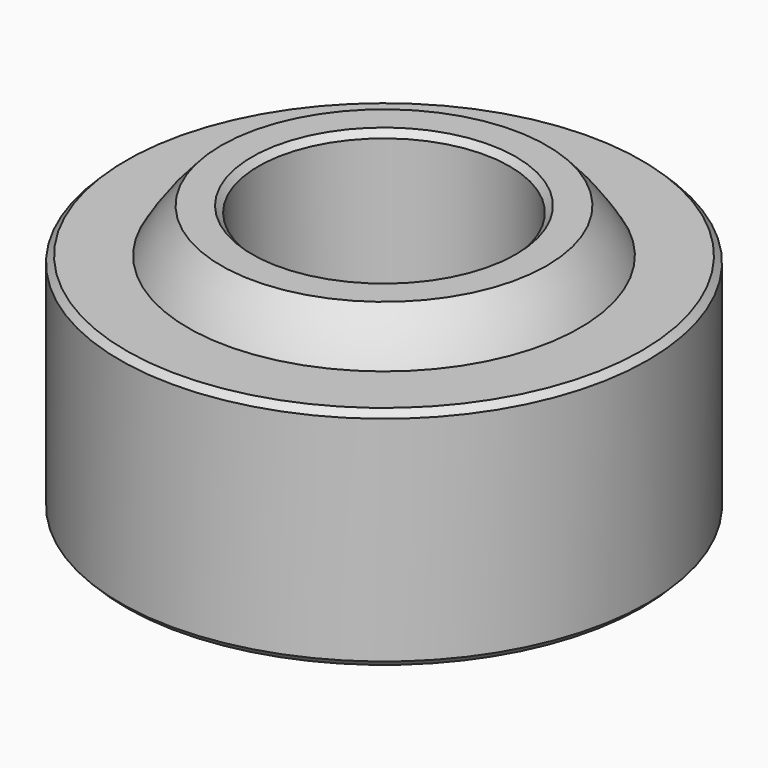
from build123d import *

# Parameters (mm, degrees)
F0_R          = 21
F1_DEPTH      = 9
F5_W          = 69.3683687429
F5_H          = 36.7891268256
F5_W_2        = 82.6124584142
F5_H_2        = 24.5260778603
F6_DEPTH      = 21.001
F6_DEPTH_BACK = 21.001
F7_R          = 10
F8_DEPTH      = 25.001
F9_SIZE       = 0.5
F9_2_SIZE     = 0.5


with BuildPart() as f1:
    # F0 (on Top) → F1 (new body, symmetric)
    with BuildSketch(Plane.XY):
        Circle(F0_R)
    extrude(amount=F1_DEPTH, both=True)

    # F2 (on Front) → F3 (revolve, cut)
    with BuildSketch(Plane.XZ):
        with BuildLine():
            Line((0, -18), (0, 18))
            ThreePointArc((0, 18), (-18, 0), (0, -18))
        make_face()
    revolve(axis=Axis((0, 0, 0.9149120826), (0, 0, 1)), mode=Mode.SUBTRACT)

    # F9
    f9_edges = [f1.edges().sort_by_distance(p)[0] for p in [
        (-21, 0, 9),
        (-21, 0, -9),
    ]]
    chamfer(f9_edges, length=F9_SIZE)


with BuildPart() as f4:
    # F2 (on Front) → F4 (revolve)
    with BuildSketch(Plane.XZ):
        with BuildLine():
            Line((0, -18), (0, 18))
            ThreePointArc((0, 18), (-18, 0), (0, -18))
        make_face()
    revolve(axis=Axis((0, 0, 0.9149120826), (0, 0, 1)))

    # F5 (on Front) → F6 (cut, two sides)
    with BuildSketch(Plane.XZ) as f6_sk:
        with Locations((0, 30.8945634128)):
            Rectangle(F5_W, F5_H)
        with Locations((0, -24.7630389301)):
            Rectangle(F5_W_2, F5_H_2)
    extrude(amount=-F6_DEPTH, mode=Mode.SUBTRACT)
    extrude(f6_sk.sketch, amount=F6_DEPTH_BACK, mode=Mode.SUBTRACT)

    # F7 (on face) → F8 (cut, through all)
    with BuildSketch(Plane.XY.offset(12.5)):
        Circle(F7_R)
    extrude(amount=-F8_DEPTH, mode=Mode.SUBTRACT)

    # F9#2
    f9_2_edges = [f4.edges().sort_by_distance(p)[0] for p in [
        (-10, 0, 12.5),
        (10, 0, 0),
        (-10, 0, -12.5),
    ]]
    chamfer(f9_2_edges, length=F9_2_SIZE)


solid = Compound([f1.part, f4.part])
